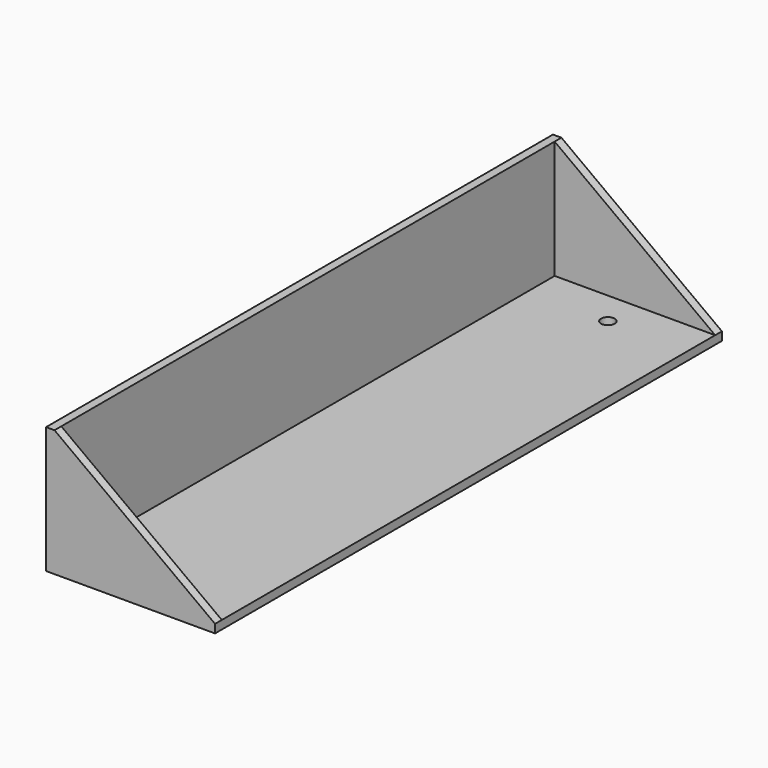
from build123d import *

# Parameters (mm, degrees)
F1_DEPTH = 300
F2_R     = 3.25
F3_DEPTH = 25
F5_DEPTH = 4
F8_DEPTH = 4


with BuildPart() as f1:
    # F0 (on Front) → F1 (new body)
    with BuildSketch(Plane.XZ):
        Polygon((0, 60), (0, 0), (80, 0), (80, 4), (4, 4), (4, 60), align=None)
    extrude(amount=F1_DEPTH)

    # F2 (on face) → F3 (cut)
    with BuildSketch(Plane.XY.offset(4)):
        with Locations((42, -20)):
            Circle(F2_R)
        with Locations((42, -280)):
            Circle(F2_R)
    extrude(amount=-F3_DEPTH, mode=Mode.SUBTRACT)

    # F4 (on Front) → F5 (join)
    with BuildSketch(Plane.XZ):
        Polygon((80, 4), (4, 60), (4, 4), align=None)
    extrude(amount=F5_DEPTH)

    # F7 (on offset) → F8 (join)
    with BuildSketch(Plane.XZ.offset(300)):
        Polygon((80, 4), (4, 60), (4, 4), align=None)
    extrude(amount=-F8_DEPTH)


solid = f1.part
